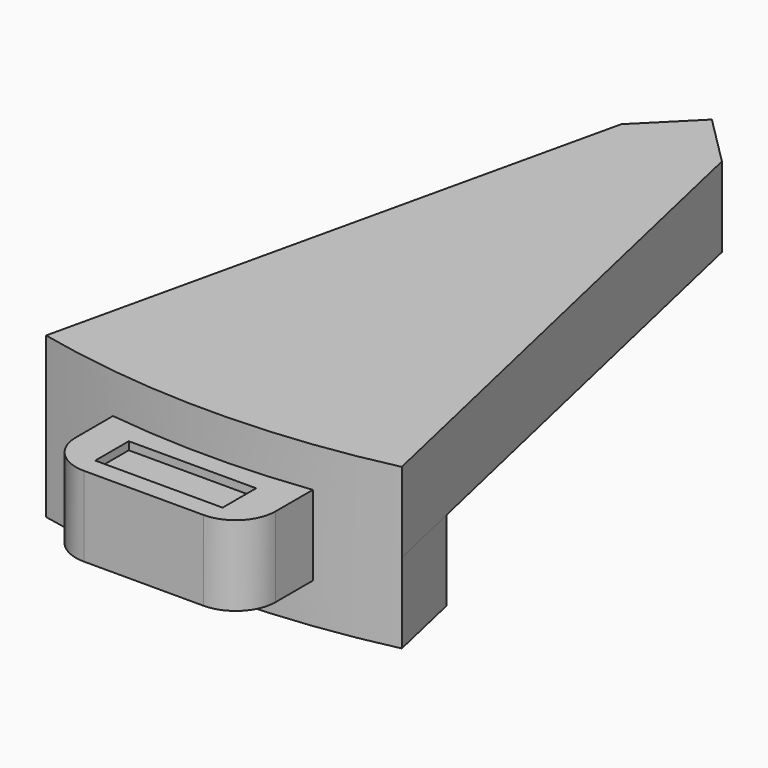
from build123d import *

# Parameters (mm, degrees)
F1_DEPTH      = 2.54
F3_DEPTH      = 5.08
F5_W          = 6.35
F5_H          = 2.54
F6_DEPTH      = 2.54
F6_DEPTH_BACK = 2.286
F7_W          = 4.047721
F7_H          = 1.332454
F8_DEPTH      = 0.254
F9_R          = 1.27


with BuildPart() as f1:
    # F0 (on Top) → F1 (new body)
    with BuildSketch(Plane.XY):
        with BuildLine():
            Line((-62.280468, 11.544375), (-63.878953, 13.142861))
            Line((-63.878953, 13.142861), (-65.477439, 11.544375))
            Line((-65.477439, 11.544375), (-69.530278, -6.236794))
            ThreePointArc((-69.530278, -6.236794), (-63.878953, -6.873435), (-58.227629, -6.236794))
            Line((-58.227629, -6.236794), (-62.280468, 11.544375))
        make_face()
    extrude(amount=F1_DEPTH)

    # F2 (on face) → F3 (join)
    with BuildSketch(Plane.XY.offset(2.54)):
        with BuildLine():
            Line((-58.227629, -6.236794), (-58.792335, -3.759239))
            ThreePointArc((-58.792335, -3.759239), (-63.878953, -4.332339), (-68.965572, -3.759239))
            Line((-68.965572, -3.759239), (-69.530278, -6.236794))
            ThreePointArc((-69.530278, -6.236794), (-63.878953, -6.873435), (-58.227629, -6.236794))
        make_face()
    extrude(amount=-F3_DEPTH)

    # F5 (on offset) → F6 (join, two sides)
    with BuildSketch(Plane.XZ.offset(6.8834)) as f6_sk:
        with Locations((-63.878953, 0)):
            Rectangle(F5_W, F5_H)
    extrude(amount=F6_DEPTH)
    extrude(f6_sk.sketch, amount=-F6_DEPTH_BACK)

    # F7 (on face) → F8 (cut)
    with BuildSketch(Plane.XY.offset(1.27)):
        with Locations((-63.878953, -8.1534)):
            Rectangle(F7_W, F7_H)
    extrude(amount=-F8_DEPTH, mode=Mode.SUBTRACT)

    # F9
    f9_edges = [f1.edges().sort_by_distance(p)[0] for p in [
        (-67.053953, -9.4234, 0),
        (-60.703953, -9.4234, 0),
    ]]
    fillet(f9_edges, radius=F9_R)


solid = f1.part
